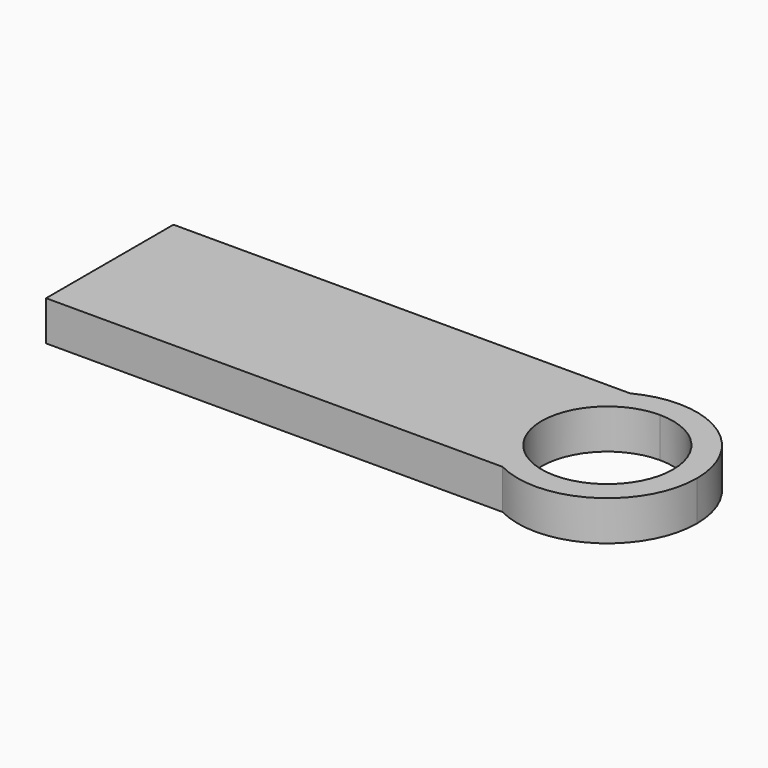
from build123d import *

# Parameters (mm, degrees)
F1_DEPTH = 2.54


with BuildPart() as f1:
    # F0 (on Top) → F1 (new body)
    with BuildSketch(Plane.XY):
        with BuildLine():
            Line((0, 10.16), (0, 0))
            Line((0, 0), (29.1318279277, 0))
            ThreePointArc((29.1318279277, 0), (26.035, 5.08), (29.1318279277, 10.16))
            Line((29.1318279277, 10.16), (0, 10.16))
        make_face()
        with BuildLine():
            ThreePointArc((29.1318279277, 10.16), (26.035, 5.08), (29.1318279277, 0))
            Line((29.1318279277, 0), (31.75, 0))
            Line((31.75, 0), (31.75, 0.889))
            ThreePointArc((31.75, 0.889), (27.559, 5.08), (31.75, 9.271))
            Line((31.75, 9.271), (31.75, 10.16))
            Line((31.75, 10.16), (29.1318279277, 10.16))
        make_face()
        with BuildLine():
            Line((31.75, 0), (29.1318279277, 0))
            ThreePointArc((29.1318279277, 0), (34.7247581084, 0.2002418916), (37.465, 5.08))
            ThreePointArc((37.465, 5.08), (34.7247581084, 9.9597581084), (29.1318279277, 10.16))
            Line((29.1318279277, 10.16), (31.75, 10.16))
            Line((31.75, 10.16), (31.75, 9.271))
            ThreePointArc((31.75, 9.271), (34.71348452, 8.04348452), (35.941, 5.08))
            ThreePointArc((35.941, 5.08), (34.71348452, 2.11651548), (31.75, 0.889))
            Line((31.75, 0.889), (31.75, 0))
        make_face()
    extrude(amount=F1_DEPTH)


solid = f1.part
